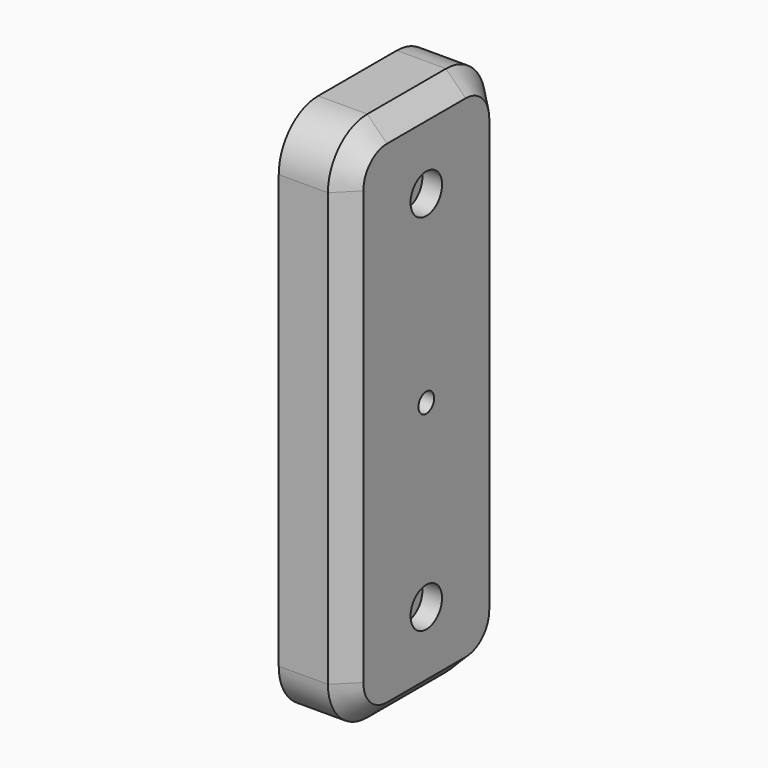
from build123d import *

# Parameters (mm, degrees)
CYLINDER032_R           = 2
CYLINDER032_DEPTH       = 2
CYLINDER032_PITCH_ANGLE = 90
CYLINDER033_R           = 2
CYLINDER033_DEPTH       = 2
CYLINDER033_PITCH_ANGLE = 90
CYLINDER030_R           = 1
CYLINDER030_DEPTH       = 7
CYLINDER030_PITCH_ANGLE = 90
CYLINDER031_R           = 1
CYLINDER031_DEPTH       = 7
CYLINDER031_PITCH_ANGLE = 90
CYLINDER029_R           = 2
CYLINDER029_DEPTH       = 7
CYLINDER029_PITCH_ANGLE = 90
CYLINDER028_R           = 2
CYLINDER028_DEPTH       = 7
CYLINDER028_PITCH_ANGLE = 90
CYLINDER027_R           = 2
CYLINDER027_DEPTH       = 2
CYLINDER027_PITCH_ANGLE = 90
CYLINDER026_R           = 1
CYLINDER026_DEPTH       = 10
CYLINDER026_PITCH_ANGLE = 90
CYLINDER024_R           = 2
CYLINDER024_DEPTH       = 10
CYLINDER024_PITCH_ANGLE = 90
CYLINDER025_R           = 2
CYLINDER025_DEPTH       = 10
CYLINDER025_PITCH_ANGLE = 90
BOX038_W                = 7
BOX038_H                = 20
BOX038_DEPTH            = 54
FILLET010_R             = 5
CHAMFER019_SIZE         = 2


with BuildPart() as cylinder032:
    # Cylinder032 → Cylinder032 (new body)
    with BuildSketch(Plane.XY):
        Circle(CYLINDER032_R)
    extrude(amount=CYLINDER032_DEPTH)


with BuildPart() as cylinder032_1:
    # Cylinder032 pitch: moved
    add(cylinder032.part.rotate(Axis((0, 0, 0), (0, 1, 0)), CYLINDER032_PITCH_ANGLE))


with BuildPart() as cylinder032_2:
    # Cylinder032 placement: moved
    add(cylinder032_1.part.moved(Location((-2, -42, -12.3))))


with BuildPart() as cylinder033:
    # Cylinder033 → Cylinder033 (new body)
    with BuildSketch(Plane.XY):
        Circle(CYLINDER033_R)
    extrude(amount=CYLINDER033_DEPTH)


with BuildPart() as cylinder033_1:
    # Cylinder033 pitch: moved
    add(cylinder033.part.rotate(Axis((0, 0, 0), (0, 1, 0)), CYLINDER033_PITCH_ANGLE))


with BuildPart() as cylinder033_2:
    # Cylinder033 placement: moved
    add(cylinder033_1.part.moved(Location((-2, -42, 24.7))))


with BuildPart() as cylinder030:
    # Cylinder030 → Cylinder030 (new body)
    with BuildSketch(Plane.XY):
        Circle(CYLINDER030_R)
    extrude(amount=CYLINDER030_DEPTH)


with BuildPart() as cylinder030_1:
    # Cylinder030 pitch: moved
    add(cylinder030.part.rotate(Axis((0, 0, 0), (0, 1, 0)), CYLINDER030_PITCH_ANGLE))


with BuildPart() as cylinder030_2:
    # Cylinder030 placement: moved
    add(cylinder030_1.part.moved(Location((-7, -42, -12.3))))


with BuildPart() as cylinder031:
    # Cylinder031 → Cylinder031 (new body)
    with BuildSketch(Plane.XY):
        Circle(CYLINDER031_R)
    extrude(amount=CYLINDER031_DEPTH)


with BuildPart() as cylinder031_1:
    # Cylinder031 pitch: moved
    add(cylinder031.part.rotate(Axis((0, 0, 0), (0, 1, 0)), CYLINDER031_PITCH_ANGLE))


with BuildPart() as cylinder031_2:
    # Cylinder031 placement: moved
    add(cylinder031_1.part.moved(Location((-7, -42, 24.7))))


with BuildPart() as cylinder029:
    # Cylinder029 → Cylinder029 (new body)
    with BuildSketch(Plane.XY):
        Circle(CYLINDER029_R)
    extrude(amount=CYLINDER029_DEPTH)


with BuildPart() as cylinder029_1:
    # Cylinder029 pitch: moved
    add(cylinder029.part.rotate(Axis((0, 0, 0), (0, 1, 0)), CYLINDER029_PITCH_ANGLE))


with BuildPart() as cylinder029_2:
    # Cylinder029 placement: moved
    add(cylinder029_1.part.moved(Location((-7, -42, 24.7))))


with BuildPart() as cylinder028:
    # Cylinder028 → Cylinder028 (new body)
    with BuildSketch(Plane.XY):
        Circle(CYLINDER028_R)
    extrude(amount=CYLINDER028_DEPTH)


with BuildPart() as cylinder028_1:
    # Cylinder028 pitch: moved
    add(cylinder028.part.rotate(Axis((0, 0, 0), (0, 1, 0)), CYLINDER028_PITCH_ANGLE))


with BuildPart() as cylinder028_2:
    # Cylinder028 placement: moved
    add(cylinder028_1.part.moved(Location((-7, -42, -12.3))))


with BuildPart() as cylinder027:
    # Cylinder027 → Cylinder027 (new body)
    with BuildSketch(Plane.XY):
        Circle(CYLINDER027_R)
    extrude(amount=CYLINDER027_DEPTH)


with BuildPart() as cylinder027_1:
    # Cylinder027 pitch: moved
    add(cylinder027.part.rotate(Axis((0, 0, 0), (0, 1, 0)), CYLINDER027_PITCH_ANGLE))


with BuildPart() as cylinder027_2:
    # Cylinder027 placement: moved
    add(cylinder027_1.part.moved(Location((-7, -42, 6))))


with BuildPart() as cylinder026:
    # Cylinder026 → Cylinder026 (new body)
    with BuildSketch(Plane.XY):
        Circle(CYLINDER026_R)
    extrude(amount=CYLINDER026_DEPTH)


with BuildPart() as cylinder026_1:
    # Cylinder026 pitch: moved
    add(cylinder026.part.rotate(Axis((0, 0, 0), (0, 1, 0)), CYLINDER026_PITCH_ANGLE))


with BuildPart() as cylinder026_2:
    # Cylinder026 placement: moved
    add(cylinder026_1.part.moved(Location((-7, -42, 6))))


with BuildPart() as cylinder024:
    # Cylinder024 → Cylinder024 (new body)
    with BuildSketch(Plane.XY):
        Circle(CYLINDER024_R)
    extrude(amount=CYLINDER024_DEPTH)


with BuildPart() as cylinder024_1:
    # Cylinder024 pitch: moved
    add(cylinder024.part.rotate(Axis((0, 0, 0), (0, 1, 0)), CYLINDER024_PITCH_ANGLE))


with BuildPart() as cylinder024_2:
    # Cylinder024 placement: moved
    add(cylinder024_1.part.moved(Location((-8, -42, 24.7))))


with BuildPart() as cylinder025:
    # Cylinder025 → Cylinder025 (new body)
    with BuildSketch(Plane.XY):
        Circle(CYLINDER025_R)
    extrude(amount=CYLINDER025_DEPTH)


with BuildPart() as cylinder025_1:
    # Cylinder025 pitch: moved
    add(cylinder025.part.rotate(Axis((0, 0, 0), (0, 1, 0)), CYLINDER025_PITCH_ANGLE))


with BuildPart() as cylinder025_2:
    # Cylinder025 placement: moved
    add(cylinder025_1.part.moved(Location((-8, -42, -12.3))))


with BuildPart() as cut046:
    # Box038 → Box038 (new body)
    with BuildSketch(Plane(origin=(-7, -52, -20.8), x_dir=(1, 0, 0), z_dir=(0, 0, 1))):
        with Locations((3.5, 10)):
            Rectangle(BOX038_W, BOX038_H)
    extrude(amount=BOX038_DEPTH)

    # Fillet010
    fillet010_edges = [cut046.edges().sort_by_distance(p)[0] for p in [
        (-3.5, -52, -20.8),
        (-3.5, -52, 33.2),
        (-3.5, -32, -20.8),
        (-3.5, -32, 33.2),
    ]]
    fillet(fillet010_edges, radius=FILLET010_R)

    # Chamfer019
    chamfer019_edges = [cut046.edges().sort_by_distance(p)[0] for p in [
        (0, -42, -20.8),
    ]]
    chamfer(chamfer019_edges, length=CHAMFER019_SIZE)

    # Cut038: cut Cylinder025
    add(cylinder025_2.part, mode=Mode.SUBTRACT)

    # Cut039: cut Cylinder024
    add(cylinder024_2.part, mode=Mode.SUBTRACT)

    # Cut041: cut Cylinder026
    add(cylinder026_2.part, mode=Mode.SUBTRACT)

    # Cut042: cut Cylinder027
    add(cylinder027_2.part, mode=Mode.SUBTRACT)

    # Fusion023: union Cylinder028
    add(cylinder028_2.part)

    # Fusion024: union Cylinder029
    add(cylinder029_2.part)

    # Cut043: cut Cylinder031
    add(cylinder031_2.part, mode=Mode.SUBTRACT)

    # Cut044: cut Cylinder030
    add(cylinder030_2.part, mode=Mode.SUBTRACT)

    # Cut045: cut Cylinder033
    add(cylinder033_2.part, mode=Mode.SUBTRACT)

    # Cut046: cut Cylinder032
    add(cylinder032_2.part, mode=Mode.SUBTRACT)


solid = cut046.part
